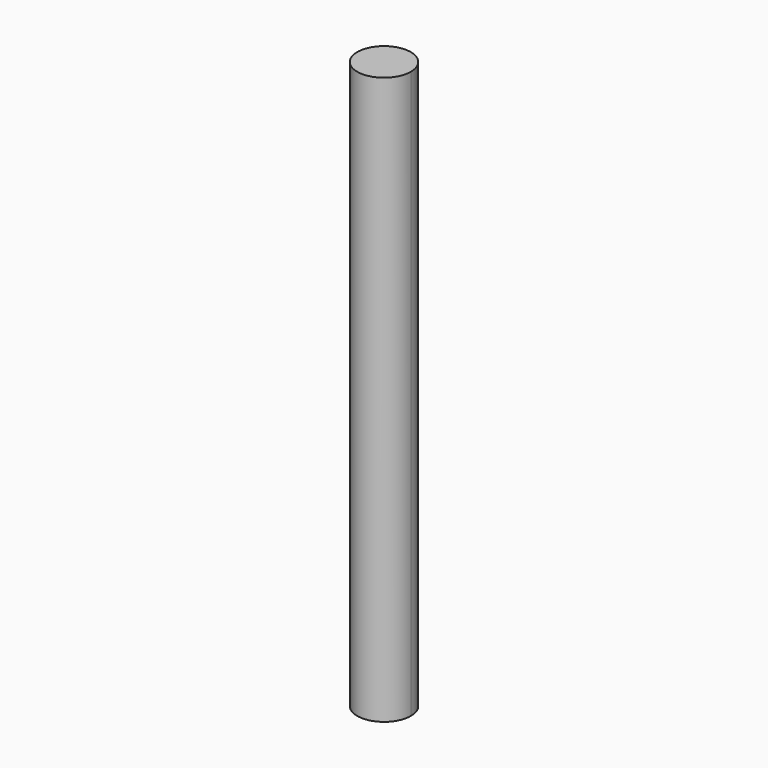
from build123d import *

# Parameters (mm, degrees)
F1_DEPTH = 53
F2_DEPTH = 24


with BuildPart() as f1:
    # F0 (on Top) → F1 (new body)
    with BuildSketch(Plane.XY):
        with BuildLine():
            Line((-27.5367628783, 11.9416650981), (-27.5367628783, 14.9416650981))
            ThreePointArc((-27.5367628783, 14.9416650981), (-28.0367628783, 13.4416650981), (-27.5367628783, 11.9416650981))
        make_face()
        with BuildLine():
            ThreePointArc((-27.5367628783, 11.9416650981), (-24.7461934633, 11.0699568529), (-23.0367628783, 13.4416650981))
            ThreePointArc((-23.0367628783, 13.4416650981), (-24.7461934633, 15.8133733432), (-27.5367628783, 14.9416650981))
            Line((-27.5367628783, 14.9416650981), (-27.5367628783, 11.9416650981))
        make_face()
    extrude(amount=F1_DEPTH)

    # F0 (on Top) → F2 (cut)
    with BuildSketch(Plane.XY):
        with BuildLine():
            Line((-27.5367628783, 11.9416650981), (-27.5367628783, 14.9416650981))
            ThreePointArc((-27.5367628783, 14.9416650981), (-28.0367628783, 13.4416650981), (-27.5367628783, 11.9416650981))
        make_face()
    extrude(amount=F2_DEPTH, mode=Mode.SUBTRACT)


solid = f1.part
